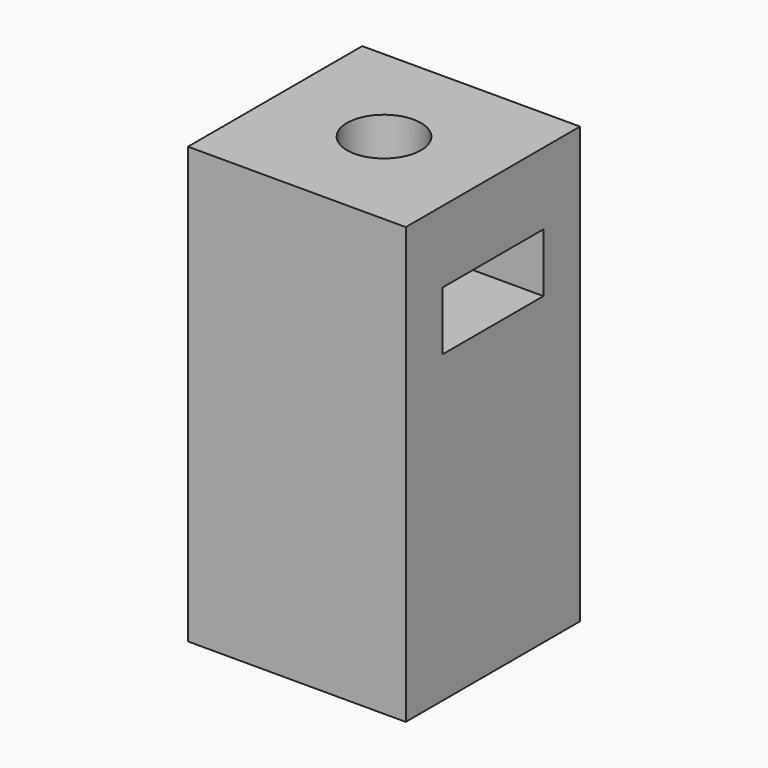
from build123d import *

# Parameters (mm, degrees)
PAD002_DEPTH             = 2.7
CYLINDER_R               = 2.95
CYLINDER_DEPTH           = 7
CYLINDER001_R            = 1.7
CYLINDER001_DEPTH        = 30
CLONE118_PLACEMENT_ANGLE = 180
BOX250_W                 = 10
BOX250_H                 = 10
BOX250_DEPTH             = 20


with BuildPart() as clone_of_m3nuthousing009:
    # Sketch003 → Pad002 (new body)
    with BuildSketch(Plane.XY):
        Polygon((0, 0), (1.674316, 2.9), (21.674316, 2.9), (21.674316, -2.9), (1.674316, -2.9), align=None)
    extrude(amount=PAD002_DEPTH)


with BuildPart() as clone_of_m3nuthousing009_1:
    # Clone119 placement: moved
    add(clone_of_m3nuthousing009.part.moved(Location((1.5, 5, 14))))


with BuildPart() as m3bolthead:
    # Cylinder → Cylinder (new body)
    with BuildSketch(Plane.XY):
        Circle(CYLINDER_R)
    extrude(amount=CYLINDER_DEPTH)


with BuildPart() as fusion051:
    # Cylinder001 → Cylinder001 (new body)
    with BuildSketch(Plane.XY.offset(6)):
        Circle(CYLINDER001_R)
    extrude(amount=CYLINDER001_DEPTH)

    # Fusion: union M3BoltHead
    add(m3bolthead.part)


with BuildPart() as fusion051_1:
    # Clone118 placement: moved
    add(fusion051.part.moved(Location((5, 5, 40))).rotate(Axis((5, 5, 40), (1, 0, 0)), CLONE118_PLACEMENT_ANGLE))

    # Fusion051: union Clone of M3NutHousing009
    add(clone_of_m3nuthousing009_1.part)


with BuildPart() as obj1:
    # Box250 → Box250 (new body)
    with BuildSketch(Plane.XY):
        with Locations((5, 5)):
            Rectangle(BOX250_W, BOX250_H)
    extrude(amount=BOX250_DEPTH)

    # Cut040: cut Fusion051
    add(fusion051_1.part, mode=Mode.SUBTRACT)


solid = obj1.part
